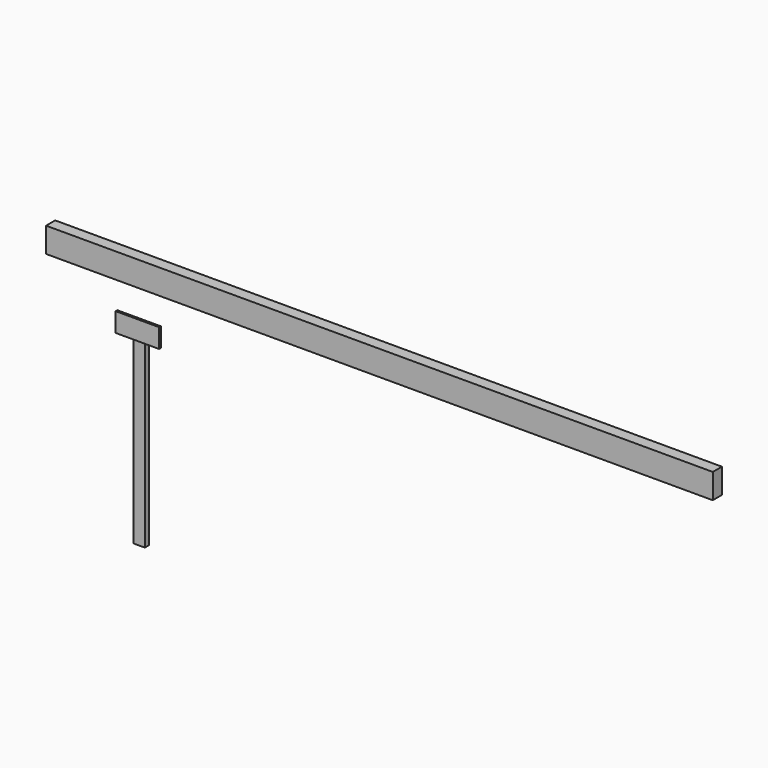
from build123d import *

# Parameters (mm, degrees)
F0_W     = 58.052364
F0_H     = 25.567106
F1_DEPTH = 2.794
F2_W     = 15.24
F2_H     = 254
F3_DEPTH = 6.604
F4_W     = 889
F4_H     = 33.237238
F5_DEPTH = 15.24


with BuildPart() as f1:
    # F0 (on Front) → F1 (new body)
    with BuildSketch(Plane.XZ):
        Rectangle(F0_W, F0_H)
    extrude(amount=F1_DEPTH)

    # F2 (on face) → F3 (join)
    with BuildSketch(Plane(origin=(0, 0, 0), x_dir=(-1, 0, 0), z_dir=(0, 1, 0))):
        with Locations((-0.063901, -127)):
            Rectangle(F2_W, F2_H)
    extrude(amount=F3_DEPTH)


with BuildPart() as f5:
    # F4 (on Front) → F5 (new body)
    with BuildSketch(Plane.XZ):
        with Locations((332.731643, 74.67941)):
            Rectangle(F4_W, F4_H)
    extrude(amount=F5_DEPTH)


solid = Compound([f1.part, f5.part])
